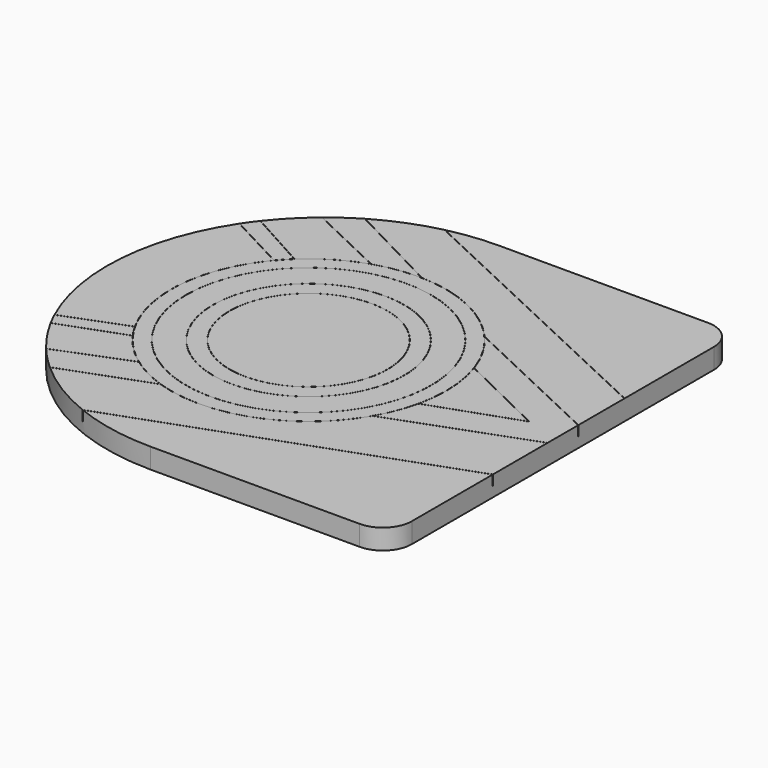
from build123d import *

# Parameters (mm, degrees)
PAD006_DEPTH            = 0.3
SKETCH028_R             = 2.041339
SKETCH028_R_2           = 2.03945
SKETCH028_R_3           = 1.818705
SKETCH028_R_4           = 1.816816
SKETCH028_R_5           = 1.418765
SKETCH028_R_6           = 1.416876
SKETCH028_R_7           = 1.173966
SKETCH028_R_8           = 1.172077
POCKET023_DEPTH         = 0.15
POCKET024_DEPTH         = 0.15
BODY012_PLACEMENT_ANGLE = 180


with BuildPart() as part:
    # Sketch027 (on Face1 of Binder005) → Pad006 (new body)
    with BuildSketch(Plane.XY.offset(3.7)):
        with BuildLine():
            Line((-7.43, 2.8), (-7.43, -2.8))
            ThreePointArc((-7.43, -2.8), (-7.304056, -3.104056), (-7, -3.23))
            Line((-7, -3.23), (-3.9, -3.23))
            ThreePointArc((-3.9, -3.23), (-0.67, 0), (-3.9, 3.23))
            Line((-7, 3.23), (-3.9, 3.23))
            ThreePointArc((-7, 3.23), (-7.304056, 3.104056), (-7.43, 2.8))
        make_face()
    extrude(amount=PAD006_DEPTH)

    # Sketch028 (on Face8 of Pad006) → Pocket023 (cut)
    with BuildSketch(Plane.XY.offset(4)):
        with Locations((-3.658112, 0)):
            Circle(SKETCH028_R)
        with Locations((-3.658112, 0)):
            Circle(SKETCH028_R_2, mode=Mode.SUBTRACT)
        with Locations((-3.658112, 0)):
            Circle(SKETCH028_R_3)
        with Locations((-3.658112, 0)):
            Circle(SKETCH028_R_4, mode=Mode.SUBTRACT)
        with Locations((-3.658112, 0)):
            Circle(SKETCH028_R_5)
        with Locations((-3.658112, 0)):
            Circle(SKETCH028_R_6, mode=Mode.SUBTRACT)
        with Locations((-3.658112, 0)):
            Circle(SKETCH028_R_7)
        with Locations((-3.658112, 0)):
            Circle(SKETCH028_R_8, mode=Mode.SUBTRACT)
    extrude(amount=-POCKET023_DEPTH, mode=Mode.SUBTRACT)

    # Sketch029 (on Face5 of Pocket023) → Pocket024 (cut)
    with BuildSketch(Plane.XY.offset(4)):
        with BuildLine():
            ThreePointArc((-5.59218, -0.649496), (-5.591438, -0.651645), (-5.593587, -0.652386))
            Line((-5.593587, -0.652386), (-6.262218, -0.326916))
            Line((-6.262218, -0.326916), (-6.930849, -0.001445))
            ThreePointArc((-6.930849, -0.001445), (-6.93175, 9.3e-05), (-6.930677, 0.001517))
            Line((-5.649986, 0.45054), (-6.930677, 0.001517))
            ThreePointArc((-5.649986, 0.45054), (-5.647937, 0.449555), (-5.648922, 0.447506))
            Line((-5.648922, 0.447506), (-6.925975, -0.000242))
            Line((-6.260811, -0.324025), (-6.925975, -0.000242))
            Line((-5.59218, -0.649496), (-6.260811, -0.324025))
        make_face()
        with BuildLine():
            Line((-2.461742, 1.652945), (-2.113541, 1.790364))
            Line((-2.113541, 1.790364), (-1.417139, 2.065201))
            ThreePointArc((-1.41832, 2.068191), (-1.416234, 2.067286), (-1.417139, 2.065201))
            Line((-2.114721, 1.793355), (-1.41832, 2.068191))
            Line((-2.462922, 1.655936), (-2.114721, 1.793355))
            ThreePointArc((-2.461742, 1.652945), (-2.463827, 1.653851), (-2.462922, 1.655936))
        make_face()
        with BuildLine():
            Line((-1.056458, 1.532527), (-1.369945, 1.41739))
            Line((-1.369945, 1.41739), (-1.996919, 1.187115))
            ThreePointArc((-1.995811, 1.184097), (-1.997874, 1.185052), (-1.996919, 1.187115))
            Line((-1.368837, 1.414372), (-1.995811, 1.184097))
            Line((-1.055349, 1.529509), (-1.368837, 1.414372))
            ThreePointArc((-1.056458, 1.532527), (-1.054395, 1.531572), (-1.055349, 1.529509))
        make_face()
        with BuildLine():
            Line((-0.963052, 1.344573), (-1.266925, 1.227595))
            Line((-1.266925, 1.227595), (-1.87467, 0.993638))
            ThreePointArc((-1.873515, 0.990638), (-1.875593, 0.99156), (-1.87467, 0.993638))
            Line((-1.26577, 1.224594), (-1.873515, 0.990638))
            Line((-0.961897, 1.341573), (-1.26577, 1.224594))
            ThreePointArc((-0.963052, 1.344573), (-0.960974, 1.343651), (-0.961897, 1.341573))
        make_face()
        with BuildLine():
            Line((-1.205234, -1.780482), (-1.501511, -1.62408))
            Line((-1.501511, -1.62408), (-2.094066, -1.311274))
            ThreePointArc((-2.095567, -1.314118), (-2.096238, -1.311945), (-2.094066, -1.311274))
            Line((-1.503012, -1.626923), (-2.095567, -1.314118))
            Line((-1.206735, -1.783326), (-1.503012, -1.626923))
            ThreePointArc((-1.205234, -1.780482), (-1.204563, -1.782655), (-1.206735, -1.783326))
        make_face()
        with BuildLine():
            Line((-1.352639, -1.985503), (-1.654493, -1.818679))
            Line((-1.654493, -1.818679), (-2.258202, -1.48503))
            ThreePointArc((-2.259758, -1.487844), (-2.260387, -1.485659), (-2.258202, -1.48503))
            Line((-1.656048, -1.821493), (-2.259758, -1.487844))
            Line((-1.354194, -1.988317), (-1.656048, -1.821493))
            ThreePointArc((-1.352639, -1.985503), (-1.352009, -1.987688), (-1.354194, -1.988317))
        make_face()
        with BuildLine():
            Line((-1.855976, -2.500086), (-2.247292, -2.313741))
            Line((-2.247292, -2.313741), (-3.029924, -1.94105))
            ThreePointArc((-3.031306, -1.943953), (-3.032066, -1.94181), (-3.029924, -1.94105))
            Line((-2.248674, -2.316644), (-3.031306, -1.943953))
            Line((-1.857358, -2.502989), (-2.248674, -2.316644))
            ThreePointArc((-1.855976, -2.500086), (-1.855216, -2.502229), (-1.857358, -2.502989))
        make_face()
        with BuildLine():
            Line((-2.264706, -2.784453), (-2.74439, -2.536097))
            Line((-2.74439, -2.536097), (-3.703759, -2.039384))
            ThreePointArc((-3.705237, -2.042239), (-3.705926, -2.040073), (-3.703759, -2.039384))
            Line((-2.745868, -2.538952), (-3.705237, -2.042239))
            Line((-2.266184, -2.787308), (-2.745868, -2.538952))
            ThreePointArc((-2.264706, -2.784453), (-2.264017, -2.78662), (-2.266184, -2.787308))
        make_face()
        with BuildLine():
            Line((-3.159776, -3.142742), (-4.582956, -2.475662))
            Line((-4.582956, -2.475662), (-7.429318, -1.141501))
            ThreePointArc((-7.430682, -1.144413), (-7.431456, -1.142275), (-7.429318, -1.141501))
            Line((-4.584321, -2.478573), (-7.430682, -1.144413))
            Line((-3.16114, -3.145653), (-4.584321, -2.478573))
            ThreePointArc((-3.159776, -3.142742), (-3.159002, -3.14488), (-3.16114, -3.145653))
        make_face()
        with BuildLine():
            Line((-5.197699, -1.338181), (-5.941571, -0.987036))
            Line((-5.941571, -0.987036), (-7.429314, -0.284746))
            ThreePointArc((-7.430686, -0.287654), (-7.431454, -0.285514), (-7.429314, -0.284746))
            Line((-5.942943, -0.989944), (-7.430686, -0.287654))
            Line((-5.199072, -1.341089), (-5.942943, -0.989944))
            ThreePointArc((-5.197699, -1.338181), (-5.196932, -1.340321), (-5.199072, -1.341089))
        make_face()
        with BuildLine():
            Line((-5.426168, 1.022786), (-6.094297, 0.776875))
            Line((-6.094297, 0.776875), (-7.430555, 0.285055))
            ThreePointArc((-7.429445, 0.282037), (-7.431509, 0.282991), (-7.430555, 0.285055))
            Line((-6.093186, 0.773858), (-7.429445, 0.282037))
            Line((-5.425057, 1.019768), (-6.093186, 0.773858))
            ThreePointArc((-5.426168, 1.022786), (-5.424104, 1.021832), (-5.425057, 1.019768))
        make_face()
        with BuildLine():
            Line((-7.429455, 1.297303), (-5.855476, 1.865041))
            Line((-5.855476, 1.865041), (-2.707518, 3.000518))
            ThreePointArc((-2.708608, 3.003543), (-2.706551, 3.002576), (-2.707518, 3.000518))
            Line((-5.856566, 1.868066), (-2.708608, 3.003543))
            Line((-7.430545, 1.300327), (-5.856566, 1.868066))
            ThreePointArc((-7.429455, 1.297303), (-7.431512, 1.29827), (-7.430545, 1.300327))
        make_face()
        with BuildLine():
            ThreePointArc((-1.742849, 2.405088), (-1.740784, 2.404137), (-1.741735, 2.402072))
            Line((-2.586132, 2.089918), (-1.741735, 2.402072))
            Line((-3.008331, 1.93384), (-2.586132, 2.089918))
            ThreePointArc((-3.008331, 1.93384), (-3.010396, 1.934791), (-3.009445, 1.936856))
            Line((-3.009445, 1.936856), (-2.587247, 2.092933))
            Line((-2.587247, 2.092933), (-1.742849, 2.405088))
        make_face()
    extrude(amount=-POCKET024_DEPTH, mode=Mode.SUBTRACT)


with BuildPart() as part_1:
    # Body012 placement: moved
    add(part.part.moved(Location((-12.05, 0, 0.1))).rotate(Axis((-12.05, 0, 0.1), (0, 0, 1)), BODY012_PLACEMENT_ANGLE))


solid = part_1.part
